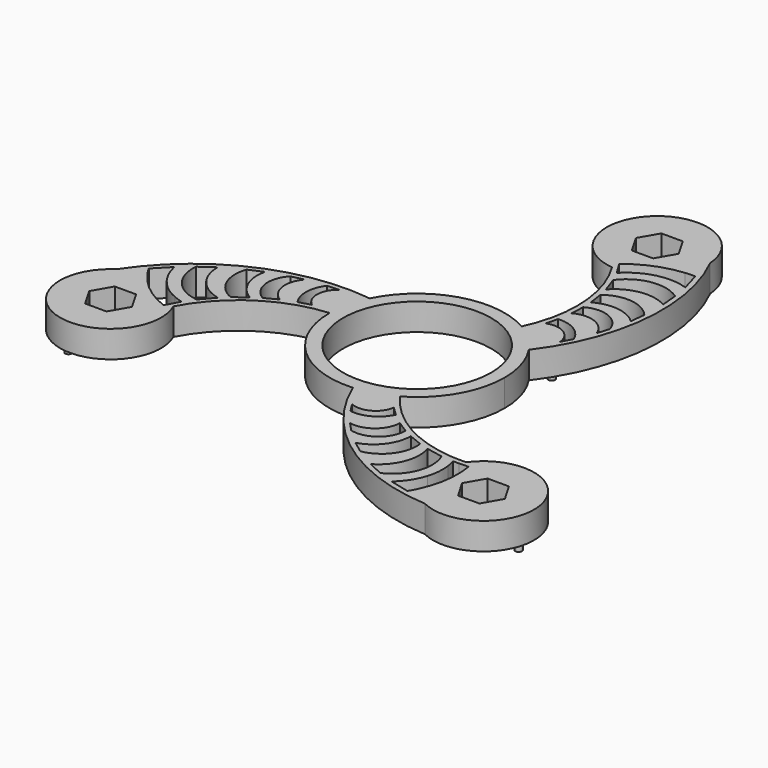
from build123d import *

# Parameters (mm, degrees)
F0_R     = 279.4
F1_DEPTH = 101.6
F2_R     = 12.7
F2_R_2   = 12.5
F3_DEPTH = 50.8


with BuildPart() as f1:
    # F0 (on Top) → F1 (new body)
    with BuildSketch(Plane.XY):
        with BuildLine():
            ThreePointArc((165.1, -285.961588), (285.961588, -165.1), (330.2, 0))
            ThreePointArc((330.2, 0), (316.035905, 95.673125), (274.758772, 183.138356))
            ThreePointArc((274.758772, 183.138356), (225.85856, 240.873309), (165.1, 285.961588))
            ThreePointArc((165.1, 285.961588), (-95.673125, 316.035905), (-295.981854, 146.378898))
            ThreePointArc((-295.981854, 146.378898), (-321.531685, 75.162596), (-330.2, 0))
            ThreePointArc((-330.2, 0), (-225.85856, -240.873309), (21.223083, -329.517254))
            ThreePointArc((21.223083, -329.517254), (95.673125, -316.035905), (165.1, -285.961588))
        make_face()
        Circle(F0_R, mode=Mode.SUBTRACT)
        with BuildLine():
            ThreePointArc((165.1, 285.961588), (225.85856, 240.873309), (274.758772, 183.138356))
            ThreePointArc((274.758772, 183.138356), (419.955029, 555.806639), (346.296428, 948.919871))
            ThreePointArc((346.296428, 948.919871), (343.096456, 900.151785), (327.593656, 853.80279))
            ThreePointArc((327.593656, 853.80279), (346.365994, 854.936106), (365.172292, 855.026849))
            Line((365.172292, 855.026849), (386.159106, 781.773906))
            ThreePointArc((386.159106, 781.773906), (330.519346, 792.374089), (274.106758, 787.298))
            ThreePointArc((274.106758, 787.298), (233.337853, 773.127606), (196.453349, 750.712498))
            ThreePointArc((196.453349, 750.712498), (183.140497, 739.629863), (170.813812, 727.459832))
            Line((170.813812, 727.459832), (159.193876, 746.42974))
            ThreePointArc((159.193876, 746.42974), (148.199724, 746.572871), (137.232142, 747.350049))
            ThreePointArc((137.232142, 747.350049), (210.182068, 520.220384), (165.1, 285.961588))
        make_face()
        with BuildLine():
            ThreePointArc((219.740654, 389.881855), (289.102738, 373.429577), (335.428058, 319.247098))
            Line((335.428058, 319.247098), (315.070275, 279.674231))
            ThreePointArc((315.070275, 279.674231), (278.207397, 339.338206), (208.315586, 345.151683))
            Line((208.315586, 345.151683), (219.740654, 389.881855))
        make_face(mode=Mode.SUBTRACT)
        with BuildLine():
            ThreePointArc((230.090316, 495.358171), (318.97663, 501.347432), (378.566059, 435.122451))
            Line((378.566059, 435.122451), (364.622182, 390.380044))
            ThreePointArc((364.622182, 390.380044), (308.575729, 448.660988), (227.861751, 443.851925))
            Line((227.861751, 443.851925), (230.090316, 495.358171))
        make_face(mode=Mode.SUBTRACT)
        with BuildLine():
            ThreePointArc((220.506904, 588.747772), (315.233937, 615.350933), (401.950913, 568.863247))
            Line((401.950913, 568.863247), (395.450001, 513.362684))
            ThreePointArc((395.450001, 513.362684), (315.191991, 550.934084), (228.323604, 533.417188))
            Line((228.323604, 533.417188), (220.506904, 588.747772))
        make_face(mode=Mode.SUBTRACT)
        with BuildLine():
            ThreePointArc((190.731506, 685.758289), (287.267753, 744.917108), (397.553807, 719.304627))
            Line((397.553807, 719.304627), (403.311044, 656.066156))
            ThreePointArc((403.311044, 656.066156), (302.181037, 674.537443), (211.661495, 625.806762))
            Line((211.661495, 625.806762), (190.731506, 685.758289))
        make_face(mode=Mode.SUBTRACT)
        with BuildLine():
            ThreePointArc((578.608057, -492.521545), (345.433034, -442.133203), (165.1, -285.961588))
            ThreePointArc((165.1, -285.961588), (95.673125, -316.035905), (21.223083, -329.517254))
            ThreePointArc((21.223083, -329.517254), (271.365154, -641.595043), (648.6405, -774.36144))
            ThreePointArc((648.6405, -774.36144), (608.006084, -747.206139), (575.618078, -710.605824))
            ThreePointArc((575.618078, -710.605824), (567.21339, -727.429803), (557.888826, -743.761906))
            Line((557.888826, -743.761906), (483.95651, -725.310549))
            ThreePointArc((483.95651, -725.310549), (520.956418, -682.425195), (544.76669, -631.032416))
            ThreePointArc((544.76669, -631.032416), (552.879221, -588.640311), (551.90942, -545.489839))
            ThreePointArc((551.90942, -545.489839), (548.968002, -528.419254), (544.591788, -511.659017))
            Line((544.591788, -511.659017), (566.830179, -511.080811))
            ThreePointArc((566.830179, -511.080811), (572.45121, -501.631161), (578.608057, -492.521545))
        make_face()
        with BuildLine():
            ThreePointArc((227.777264, -385.241916), (178.848131, -437.085104), (108.762068, -450.112768))
            Line((108.762068, -450.112768), (84.669851, -412.695977))
            ThreePointArc((84.669851, -412.695977), (154.771808, -410.603776), (194.752332, -352.982431))
            Line((194.752332, -352.982431), (227.777264, -385.241916))
        make_face(mode=Mode.SUBTRACT)
        with BuildLine():
            ThreePointArc((313.947602, -446.943144), (274.691297, -526.915581), (187.544067, -545.40905))
            Line((187.544067, -545.40905), (155.767944, -510.962094))
            ThreePointArc((155.767944, -510.962094), (234.263949, -491.564914), (270.456167, -419.260027))
            Line((270.456167, -419.260027), (313.947602, -446.943144))
        make_face(mode=Mode.SUBTRACT)
        with BuildLine():
            ThreePointArc((399.617075, -485.338467), (375.292572, -580.676064), (291.674567, -632.531325))
            Line((291.674567, -632.531325), (246.860125, -599.151088))
            ThreePointArc((246.860125, -599.151088), (319.526917, -548.431313), (347.791033, -464.442635))
            Line((347.791033, -464.442635), (399.617075, -485.338467))
        make_face(mode=Mode.SUBTRACT)
        with BuildLine():
            ThreePointArc((498.518346, -508.057474), (501.483263, -621.239726), (424.159177, -703.94401))
            Line((424.159177, -703.94401), (366.514436, -677.310688))
            ThreePointArc((366.514436, -677.310688), (433.076043, -598.965176), (436.133807, -496.207613))
            Line((436.133807, -496.207613), (498.518346, -508.057474))
        make_face(mode=Mode.SUBTRACT)
        with BuildLine():
            ThreePointArc((327.593656, 853.80279), (343.096456, 900.151785), (346.296428, 948.919871))
            ThreePointArc((346.296428, 948.919871), (23.952295, 1074.045306), (137.232142, 747.350049))
            ThreePointArc((137.232142, 747.350049), (148.199724, 746.572871), (159.193876, 746.42974))
            Line((159.193876, 746.42974), (140.616896, 776.757238))
            ThreePointArc((140.616896, 776.757238), (228.227479, 829.544451), (327.593656, 853.80279))
        make_face()
        Polygon((75.530644, 936.905829), (115.853144, 1006.746447), (196.498144, 1006.746447), (236.820644, 936.905829), (196.498144, 867.06521), (115.853144, 867.06521), align=None, mode=Mode.SUBTRACT)
        with BuildLine():
            ThreePointArc((648.6405, -774.36144), (918.174372, -557.765949), (578.608057, -492.521545))
            ThreePointArc((578.608057, -492.521545), (572.45121, -501.631161), (566.830179, -511.080811))
            Line((566.830179, -511.080811), (602.383053, -510.156423))
            ThreePointArc((602.383053, -510.156423), (604.292829, -612.42302), (575.618078, -710.605824))
            ThreePointArc((575.618078, -710.605824), (608.006084, -747.206139), (648.6405, -774.36144))
        make_face()
        Polygon((773.618927, -533.864371), (813.941427, -603.704989), (773.618927, -673.545608), (692.973927, -673.545608), (652.651427, -603.704989), (692.973927, -533.864371), align=None, mode=Mode.SUBTRACT)
        with BuildLine():
            ThreePointArc((-330.2, 0), (-321.531685, 75.162596), (-295.981854, 146.378898))
            ThreePointArc((-295.981854, 146.378898), (-691.320184, 85.788404), (-994.936929, -174.558431))
            ThreePointArc((-994.936929, -174.558431), (-951.102541, -152.945645), (-903.211734, -143.196967))
            ThreePointArc((-903.211734, -143.196967), (-913.579384, -127.506303), (-923.061118, -111.264943))
            Line((-923.061118, -111.264943), (-870.115616, -56.463358))
            ThreePointArc((-870.115616, -56.463358), (-851.475764, -109.948895), (-818.873448, -156.265585))
            ThreePointArc((-818.873448, -156.265585), (-786.217073, -184.487295), (-748.362768, -205.222658))
            ThreePointArc((-748.362768, -205.222658), (-732.108499, -211.210609), (-715.405601, -215.800815))
            Line((-715.405601, -215.800815), (-726.024055, -235.34893))
            ThreePointArc((-726.024055, -235.34893), (-720.650934, -244.94171), (-715.840199, -254.828503))
            ThreePointArc((-715.840199, -254.828503), (-555.615102, -78.087181), (-330.2, 0))
        make_face()
        with BuildLine():
            ThreePointArc((-689.249852, -177.700815), (-788.751016, -123.677382), (-821.712984, -15.360618))
            Line((-821.712984, -15.360618), (-769.82548, 21.244532))
            ThreePointArc((-769.82548, 21.244532), (-735.25708, -75.572267), (-647.795302, -129.59915))
            Line((-647.795302, -129.59915), (-689.249852, -177.700815))
        make_face(mode=Mode.SUBTRACT)
        with BuildLine():
            Line((-576.114637, -68.974553), (-620.12398, -103.409305))
            ThreePointArc((-620.12398, -103.409305), (-690.526509, -34.674869), (-693.62548, 63.668078))
            Line((-693.62548, 63.668078), (-642.310126, 85.788404))
            ThreePointArc((-642.310126, 85.788404), (-634.718908, -2.502771), (-576.114637, -68.974553))
        make_face(mode=Mode.SUBTRACT)
        with BuildLine():
            Line((-498.317918, -24.591898), (-544.037918, -48.415027))
            ThreePointArc((-544.037918, -48.415027), (-593.667927, 25.568149), (-566.110126, 110.286599))
            Line((-566.110126, 110.286599), (-520.390126, 120.582051))
            ThreePointArc((-520.390126, 120.582051), (-542.839678, 42.903926), (-498.317918, -24.591898))
        make_face(mode=Mode.SUBTRACT)
        with BuildLine():
            ThreePointArc((-447.517918, -4.639939), (-467.950869, 63.655527), (-444.190126, 130.86567))
            Line((-444.190126, 130.86567), (-399.740126, 133.021747))
            ThreePointArc((-399.740126, 133.021747), (-432.979205, 71.26557), (-403.067918, 7.830748))
            Line((-403.067918, 7.830748), (-447.517918, -4.639939))
        make_face(mode=Mode.SUBTRACT)
        with BuildLine():
            ThreePointArc((-903.211734, -143.196967), (-951.102541, -152.945645), (-994.936929, -174.558431))
            ThreePointArc((-994.936929, -174.558431), (-942.126667, -516.279357), (-715.840199, -254.828503))
            ThreePointArc((-715.840199, -254.828503), (-720.650934, -244.94171), (-726.024055, -235.34893))
            Line((-726.024055, -235.34893), (-742.999948, -266.600815))
            ThreePointArc((-742.999948, -266.600815), (-832.520308, -217.121431), (-903.211734, -143.196967))
        make_face()
        Polygon((-849.14957, -263.360221), (-808.82707, -333.200839), (-849.14957, -403.041458), (-929.79457, -403.041458), (-970.11707, -333.200839), (-929.79457, -263.360221), align=None, mode=Mode.SUBTRACT)
    extrude(amount=F1_DEPTH)

    # F2 (on face) → F3 (join)
    with BuildSketch(Plane(origin=(0, 0, 0), x_dir=(1, 0, 0), z_dir=(0, 0, -1))):
        with Locations((138.178983, 380.014748)):
            Circle(F2_R)
        with Locations((866.294952, 604.331288)):
            Circle(F2_R_2)
        with Locations((-956.513724, 448.067792)):
            Circle(F2_R_2)
        with Locations((90.218772, -1052.39908)):
            Circle(F2_R_2)
        with Locations((-398.191917, -70.340864)):
            Circle(F2_R)
        with Locations((260.012934, -309.673884)):
            Circle(F2_R)
    extrude(amount=F3_DEPTH)


solid = f1.part
